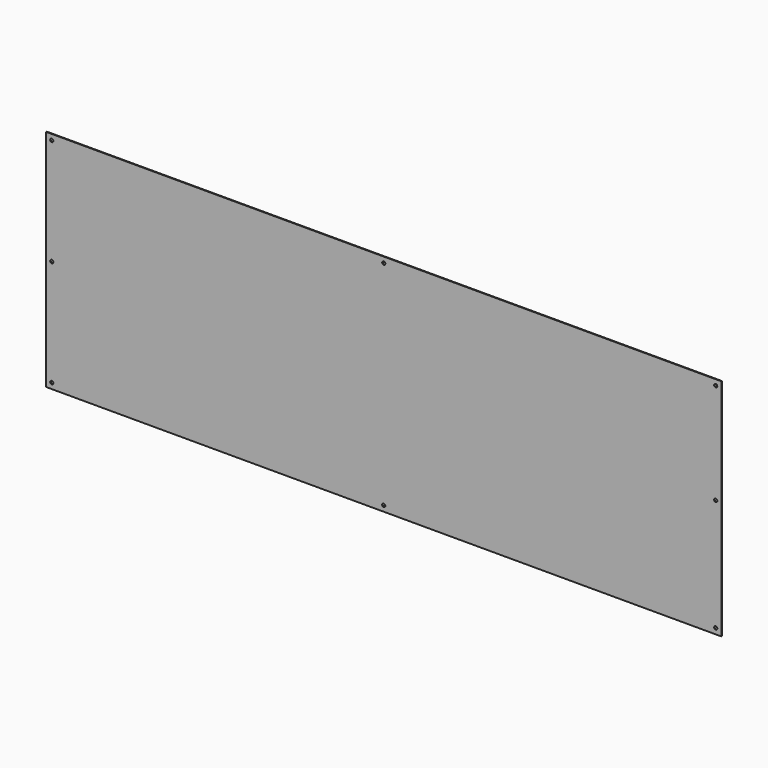
from build123d import *

# Parameters (mm, degrees)
F0_W     = 1503.2
F0_H     = 500
F0_R     = 3.5
F1_DEPTH = 1.5


with BuildPart() as f1:
    # F0 (on Front) → F1 (new body)
    with BuildSketch(Plane.XZ):
        Rectangle(F0_W, F0_H)
        with Locations((-739, -237.3)):
            Circle(F0_R, mode=Mode.SUBTRACT)
        with Locations((0, -237.3)):
            Circle(F0_R, mode=Mode.SUBTRACT)
        with Locations((739, -237.4)):
            Circle(F0_R, mode=Mode.SUBTRACT)
        with Locations((-739, 0)):
            Circle(F0_R, mode=Mode.SUBTRACT)
        with Locations((-739, 237.3)):
            Circle(F0_R, mode=Mode.SUBTRACT)
        with Locations((739, 12.6)):
            Circle(F0_R, mode=Mode.SUBTRACT)
        with Locations((0, 237.3)):
            Circle(F0_R, mode=Mode.SUBTRACT)
        with Locations((739, 237.3)):
            Circle(F0_R, mode=Mode.SUBTRACT)
    extrude(amount=F1_DEPTH)


solid = f1.part
